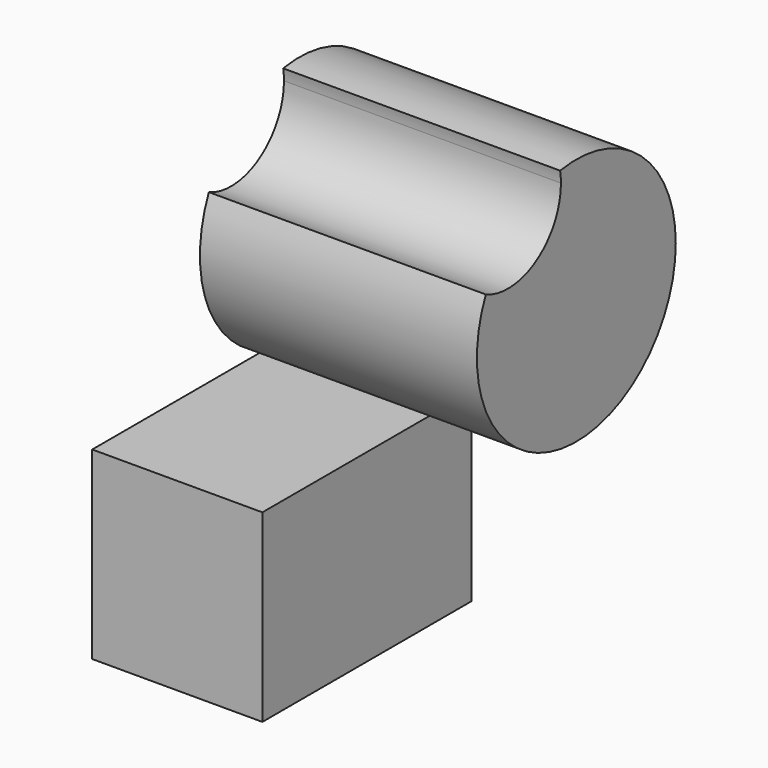
from build123d import *

# Parameters (mm, degrees)
F0_W     = 122.719718
F0_H     = 86.635407
F1_DEPTH = 79.899499
F2_DEPTH = 130.048


with BuildPart() as f1:
    # F0 (on Right) → F1 (new body)
    with BuildSketch(Plane.YZ):
        with Locations((-61.359859, -43.317704)):
            Rectangle(F0_W, F0_H)
    extrude(amount=-F1_DEPTH)


with BuildPart() as f2:
    # F0 (on Right) → F2 (new body)
    with BuildSketch(Plane.YZ):
        with BuildLine():
            ThreePointArc((-154.156573, 145.132253), (-113.354682, 63.970719), (-42.655332, 121.010974))
            ThreePointArc((-42.655332, 121.010974), (-63.262023, 165.514523), (-110.529741, 178.589858))
            ThreePointArc((-110.529741, 178.589858), (-110.178361, 175.914944), (-110.060938, 173.219606))
            ThreePointArc((-110.060938, 173.219606), (-124.403443, 147.079003), (-154.156573, 145.132253))
        make_face()
    extrude(amount=F2_DEPTH)


solid = Compound([f1.part, f2.part])
